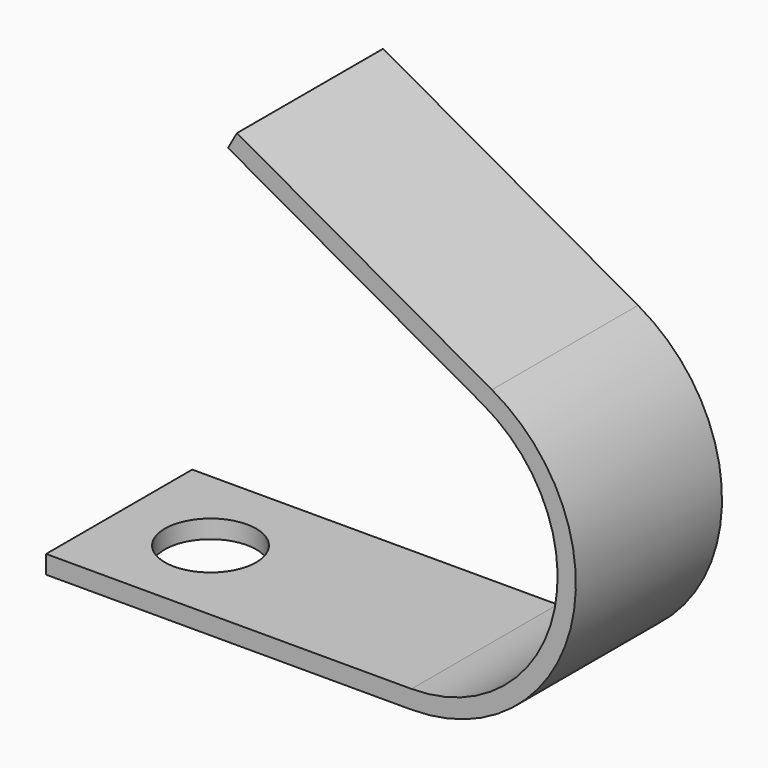
from build123d import *

# Parameters (mm, degrees)
F1_DEPTH = 50
F2_R     = 12.5
F3_DEPTH = 5.001


with BuildPart() as f1:
    # F0 (on Front) → F1 (new body)
    with BuildSketch(Plane.XZ):
        with BuildLine():
            Line((100, 0), (0, 0))
            Line((0, 0), (0, -5))
            Line((0, -5), (100, -5))
            ThreePointArc((100, -5), (143.538319, 28.62394), (122.01309, 79.248234))
            Line((122.01309, 79.248234), (52.238453, 118.382617))
            Line((52.238453, 118.382617), (49.792554, 114.021702))
            Line((49.792554, 114.021702), (119.567191, 74.887319))
            ThreePointArc((119.567191, 74.887319), (138.700728, 29.887947), (100, 0))
        make_face()
    extrude(amount=F1_DEPTH)

    # F2 (on face) → F3 (cut, through all)
    with BuildSketch(Plane.XY):
        with Locations((25, -25)):
            Circle(F2_R)
    extrude(amount=-F3_DEPTH, mode=Mode.SUBTRACT)


solid = f1.part
